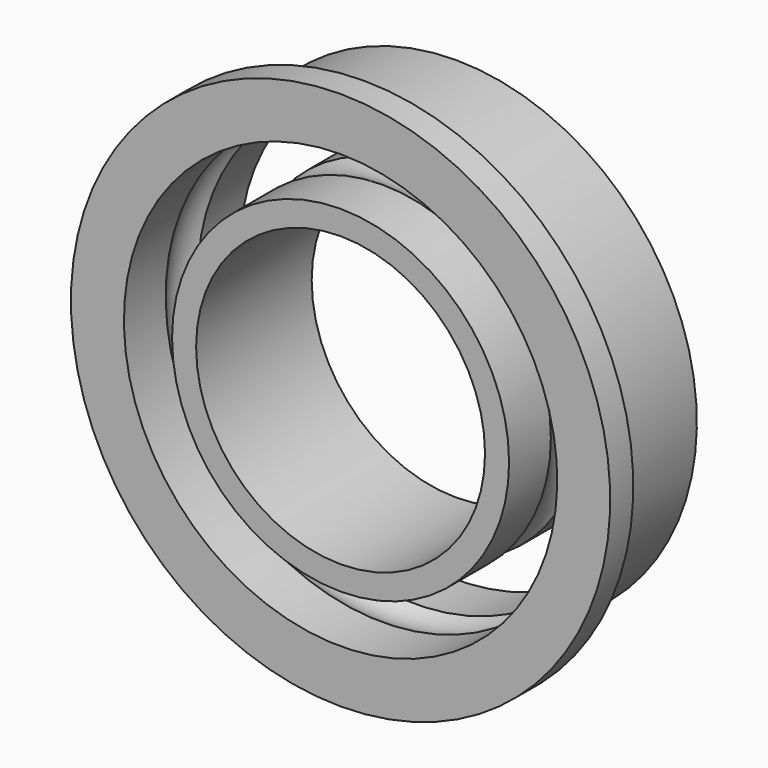
from build123d import *


with BuildPart() as f1:
    # F0 (on Right) → F1 (revolve)
    with BuildSketch(Plane.YZ):
        with BuildLine():
            Line((-0.415331, 3.5), (-1.5, 3.5))
            Line((-1.5, 3.5), (-1.5, 3))
            Line((-1.5, 3), (1.5, 3))
            Line((1.5, 3), (1.5, 3.5))
            Line((1.5, 3.5), (0.415331, 3.5))
            ThreePointArc((0.415331, 3.5), (0, 3.35), (-0.415331, 3.5))
        make_face()
        with BuildLine():
            Line((-0.9, 5.6), (-1.5, 5.6))
            Line((-1.5, 5.6), (-1.5, 4.5))
            Line((-1.5, 4.5), (-0.415331, 4.5))
            ThreePointArc((-0.415331, 4.5), (0, 4.65), (0.415331, 4.5))
            Line((0.415331, 4.5), (1.5, 4.5))
            Line((1.5, 4.5), (1.5, 5))
            Line((1.5, 5), (-0.9, 5))
            Line((-0.9, 5), (-0.9, 5.6))
        make_face()
    revolve(axis=Axis((0, 0, 0), (0, 1, 0)))


solid = f1.part
